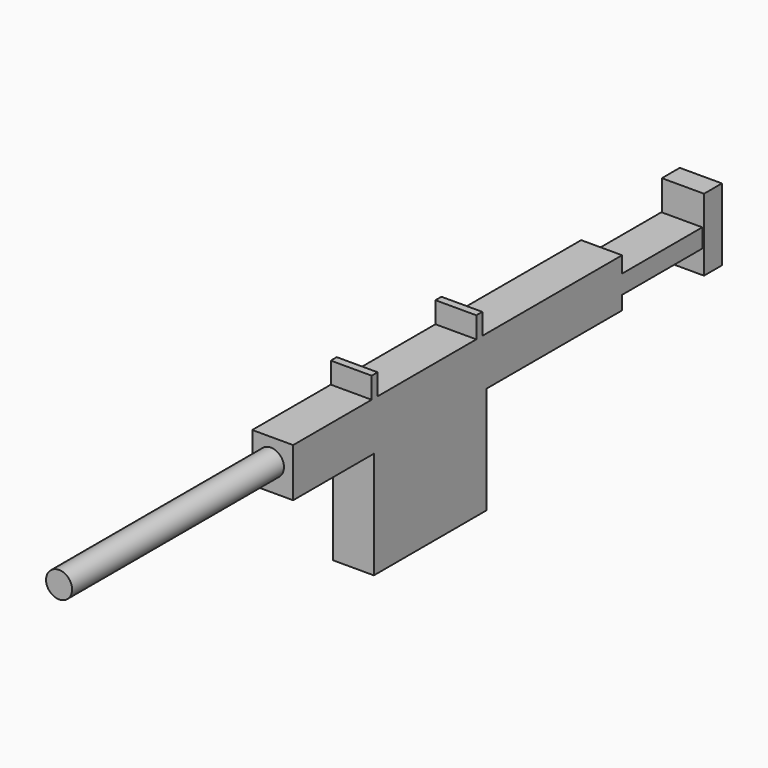
from build123d import *

# Parameters (mm, degrees)
F0_W      = 27.991115
F0_H      = 21.302972
F1_DEPTH  = 8.128
F2_W      = 81.743963
F2_H      = 9.66065
F3_DEPTH  = 8.128
F4_R      = 2.586158
F5_DEPTH  = 85.852
F6_W      = 1.486253
F6_H      = 4.70647
F6_W_2    = 1.486256
F6_H_2    = 4.45876
F7_DEPTH  = 8.128
F8_W      = 20.064421
F8_H      = 3.715635
F9_DEPTH  = 8.128
F10_W     = 4.452333
F10_H     = 14.346389
F11_DEPTH = 8.382


with BuildPart() as f1:
    # F0 (on Right) → F1 (new body)
    with BuildSketch(Plane.YZ):
        with Locations((0.866982, -10.651486)):
            Rectangle(F0_W, F0_H)
    extrude(amount=F1_DEPTH)

    # F2 (on Right) → F3 (join)
    with BuildSketch(Plane.YZ):
        with Locations((7.678978, 4.830325)):
            Rectangle(F2_W, F2_H)
    extrude(amount=F3_DEPTH)

    # F4 (on Front) → F5 (join)
    with BuildSketch(Plane.XZ):
        with Locations((3.715635, 5.201889)):
            Circle(F4_R)
    extrude(amount=F5_DEPTH)

    # F6 (on Right) → F7 (join)
    with BuildSketch(Plane.YZ):
        with Locations((-12.933677, 11.518467)):
            Rectangle(F6_W, F6_H)
        with Locations((13.075766, 11.642322)):
            Rectangle(F6_W_2, F6_H_2)
    extrude(amount=F7_DEPTH)

    # F8 (on Right) → F9 (join)
    with BuildSketch(Plane.YZ):
        with Locations((58.463644, 4.582617)):
            Rectangle(F8_W, F8_H)
    extrude(amount=F9_DEPTH)


with BuildPart() as f11:
    # F10 (on Right) → F11 (new body)
    with BuildSketch(Plane.YZ):
        with Locations((70.82957, 5.183658)):
            Rectangle(F10_W, F10_H)
    extrude(amount=F11_DEPTH)


solid = Compound([f1.part, f11.part])
